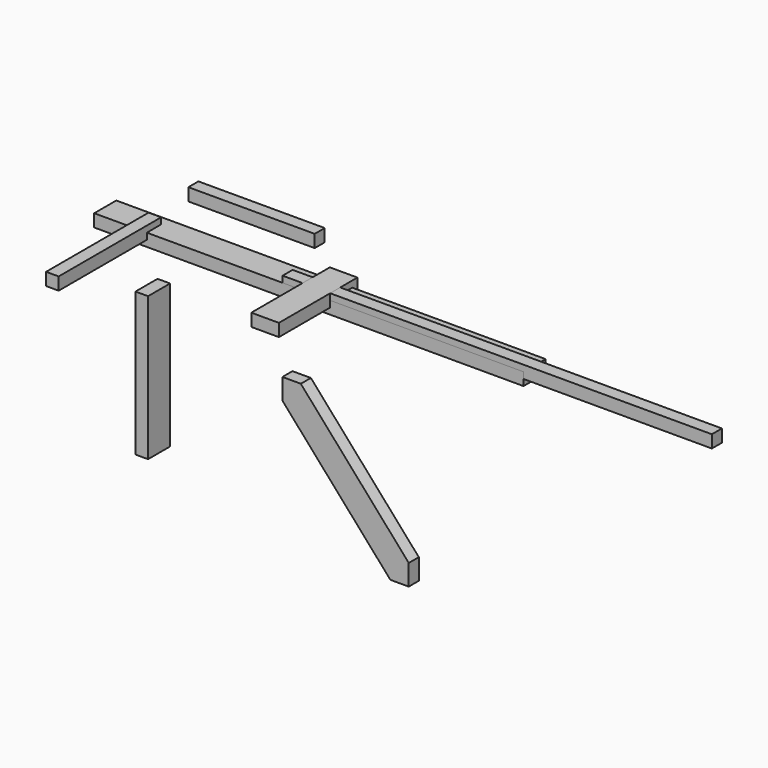
from build123d import *

# Parameters (mm, degrees)
F0_W      = 1400
F0_H      = 41
F1_DEPTH  = 41
F2_W      = 41
F2_H      = 418
F3_DEPTH  = 41
F4_W      = 41
F4_H      = 468
F5_DEPTH  = 90
F6_W      = 1400
F6_H      = 41
F7_DEPTH  = 90
F8_W      = 90
F8_H      = 320
F9_DEPTH  = 41
F10_W     = 412
F10_H     = 41
F11_DEPTH = 41
F13_DEPTH = 41


with BuildPart() as f1:
    # F0 (on Top) → F1 (new body)
    with BuildSketch(Plane.XY):
        with Locations((614.2315574641, 20.5)):
            Rectangle(F0_W, F0_H)
    extrude(amount=F1_DEPTH)


with BuildPart() as f3:
    # F2 (on Top) → F3 (new body)
    with BuildSketch(Plane.XY):
        with Locations((-548.8585276604, -150.4986073971)):
            Rectangle(F2_W, F2_H)
    extrude(amount=F3_DEPTH)


with BuildPart() as f5:
    # F4 (on Front) → F5 (new body)
    with BuildSketch(Plane.XZ):
        with Locations((-544.9659867287, -394.5916641653)):
            Rectangle(F4_W, F4_H)
    extrude(amount=-F5_DEPTH)


with BuildPart() as f7:
    # F6 (on Front) → F7 (new body)
    with BuildSketch(Plane.XZ):
        Rectangle(F6_W, F6_H)
    extrude(amount=-F7_DEPTH)


with BuildPart() as f9:
    # F8 (on Top) → F9 (new body)
    with BuildSketch(Plane.XY):
        with Locations((24.5, -49)):
            Rectangle(F8_W, F8_H)
    extrude(amount=F9_DEPTH)


with BuildPart() as f11:
    # F10 (on Top) → F11 (new body)
    with BuildSketch(Plane.XY):
        with Locations((-371.981710434, 251.7209606171)):
            Rectangle(F10_W, F10_H)
    extrude(amount=F11_DEPTH)


with BuildPart() as f13:
    # F12 (on Front) → F13 (new body)
    with BuildSketch(Plane.XZ):
        Polygon((-53.4426776367, -222.5840827349), (-53.4426776367, -290.5840827349), (298.5475955244, -690.5840827349), (358.5475955244, -690.5840827349), (358.5475955244, -622.5840827349), (6.5573223633, -222.5840827349), align=None)
    extrude(amount=F13_DEPTH)


solid = Compound([f1.part, f3.part, f5.part, f7.part, f9.part, f11.part, f13.part])
